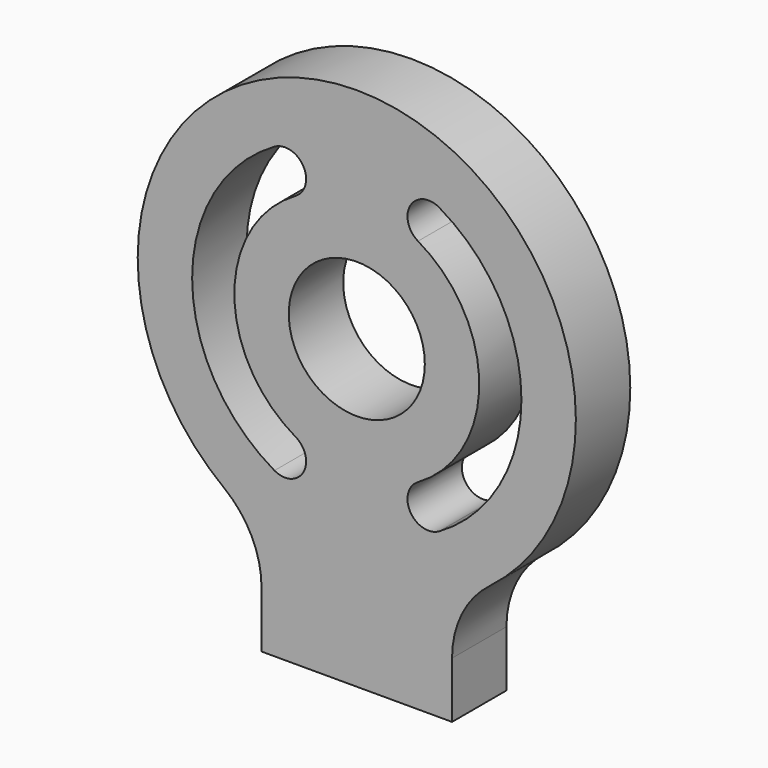
from build123d import *

# Parameters (mm, degrees)
SKETCH001_AS_DRAWN_R                 = 5
EXTRUDE001_DEPTH                     = 5
EXTRUDE001_ONTO_SKETCH001_ROLL_ANGLE = 90
FILLET_R                             = 7


with BuildPart() as part:
    # Sketch001 as drawn → Extrude001 (new)
    with BuildSketch(Plane.XY):
        with BuildLine():
            Line((-7, 0), (7, 0))
            Line((7, 0), (7, 8))
            ThreePointArc((7, 8), (0, 38.598621), (-7, 8))
            Line((-7, 0), (-7, 8))
        make_face()
        with Locations((0, 22.498621)):
            Circle(SKETCH001_AS_DRAWN_R, mode=Mode.SUBTRACT)
        with BuildLine():
            ThreePointArc((-6.05, 32.977528), (-12.1, 22.498621), (-6.05, 12.019713))
            ThreePointArc((-6.05, 12.019713), (-3.932661, 12.587053), (-4.5, 14.704392))
            ThreePointArc((-4.5, 30.292849), (-9, 22.498621), (-4.5, 14.704392))
            ThreePointArc((-4.5, 30.292849), (-3.932661, 32.410189), (-6.05, 32.977528))
        make_face(mode=Mode.SUBTRACT)
        with BuildLine():
            ThreePointArc((4.5, 14.704392), (9, 22.498621), (4.5, 30.292849))
            ThreePointArc((6.05, 32.977528), (3.932661, 32.410189), (4.5, 30.292849))
            ThreePointArc((6.05, 12.019713), (12.1, 22.498621), (6.05, 32.977528))
            ThreePointArc((4.5, 14.704392), (3.932661, 12.587053), (6.05, 12.019713))
        make_face(mode=Mode.SUBTRACT)
    extrude(amount=-EXTRUDE001_DEPTH)


with BuildPart() as part_1:
    # Extrude001 onto Sketch001 roll: moved
    add(part.part.rotate(Axis((0, 0, 0), (1, 0, 0)), EXTRUDE001_ONTO_SKETCH001_ROLL_ANGLE))


with BuildPart() as part_2:
    # Extrude001 onto Sketch001 placement: moved
    add(part_1.part)

    # Fillet
    fillet_edges = [part_2.edges().sort_by_distance(p)[0] for p in [
        (7, 2.5, 8),
        (-7, 2.5, 8),
    ]]
    fillet(fillet_edges, radius=FILLET_R)


solid = part_2.part
